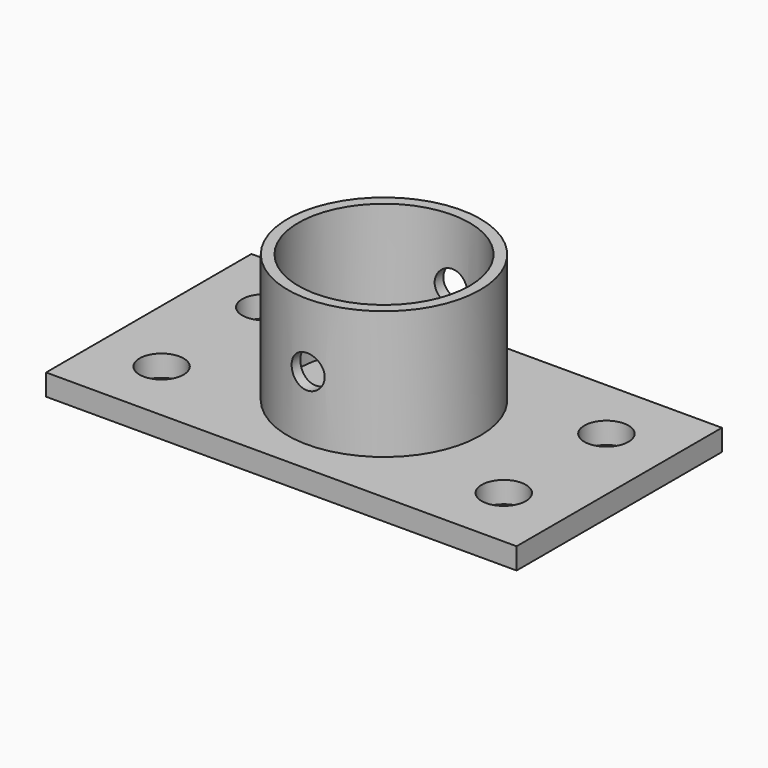
from build123d import *

# Parameters (mm, degrees)
F0_R     = 25.4
F1_DEPTH = 6.35
F0_W     = 139.7
F0_H     = 76.2
F0_R_2   = 28.575
F2_DEPTH = 44.45
F3_D     = 13.096875
F5_D     = 9.8044
F5_DEPTH = 38.101
F6_D     = 9.8044


with BuildPart() as f1:
    # F0 (on Top) → F1 (new body)
    with BuildSketch(Plane.XY):
        Circle(F0_R)
    extrude(amount=F1_DEPTH)



with BuildPart() as f1b:
    # F0 (on Top) → F1, piece 2 (new body)
    with BuildSketch(Plane.XY):
        Rectangle(F0_W, F0_H)
        Circle(F0_R_2, mode=Mode.SUBTRACT)
    extrude(amount=F1_DEPTH)


with BuildPart() as f1_1:
    add(f1.part)

    add(f1b.part)  # F2 merges F1b
    # F0 (on Top) → F2 (join)
    with BuildSketch(Plane.XY):
        Circle(F0_R_2)
        Circle(F0_R, mode=Mode.SUBTRACT)
    extrude(amount=F2_DEPTH)

    # F3 (through all)
    with Locations(Plane(origin=(0, 0, 0), x_dir=(1, 0, 0), z_dir=(0, 0, -1))):
        with Locations((-50.8, -19.05), (50.8, -19.05), (50.8, 19.05), (-50.8, 19.05)):
            Hole(F3_D / 2)

    # F5 (through all, one way)
    with BuildSketch(Plane(origin=(0, 0, 0), x_dir=(1, 0, 0), z_dir=(0, 1, 0))):
        with Locations((0, -25.4)):
            Circle(F5_D / 2)
    extrude(amount=-F5_DEPTH, mode=Mode.SUBTRACT)

    # F6 (through all)
    with Locations(Plane.XZ):
        with Locations((0, 25.4)):
            Hole(F6_D / 2)


solid = f1_1.part
